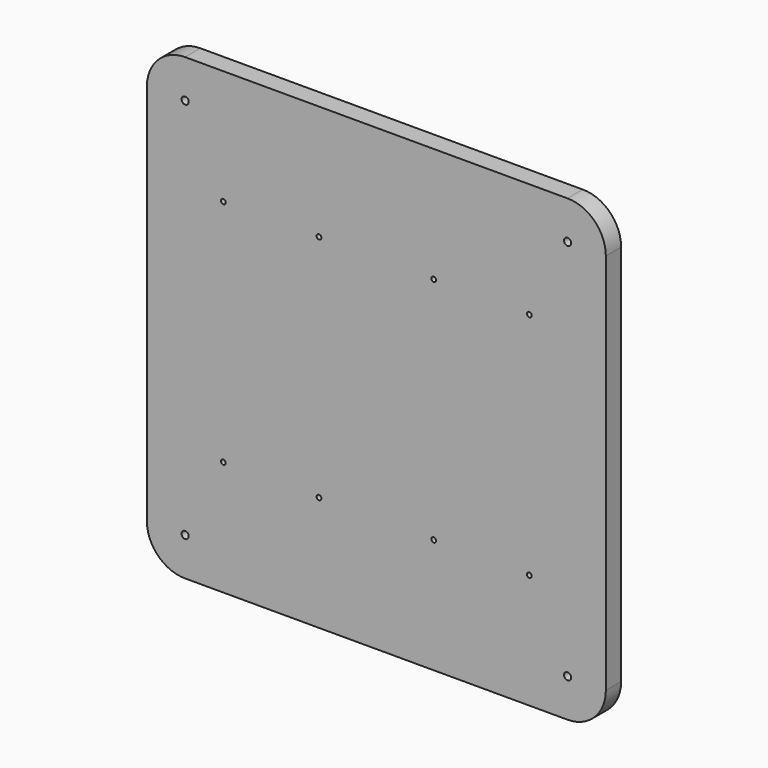
from build123d import *

# Parameters (mm, degrees)
F0_W     = 304.8
F0_H     = 304.8
F1_DEPTH = 12.7
F2_R     = 25.4
F4_D     = 3.175
F6_D     = 4.7752


with BuildPart() as f1:
    # F0 (on Front) → F1 (new body)
    with BuildSketch(Plane.XZ):
        with Locations((0.942873, 31.408716)):
            Rectangle(F0_W, F0_H)
    extrude(amount=F1_DEPTH)

    # F2
    f2_edges = [f1.edges().sort_by_distance(p)[0] for p in [
        (-151.457127, -6.35, 183.808716),
        (-151.457127, -6.35, -120.991284),
        (153.342873, -6.35, -120.991284),
        (153.342873, -6.35, 183.808716),
    ]]
    fillet(f2_edges, radius=F2_R)

    # F4 (through all)
    with Locations(Plane.XZ.offset(12.7)):
        with Locations((-100.657127, 107.608716), (-37.157127, 107.608716), (39.042873, 107.608716), (102.542873, 107.608716), (102.542873, -44.791284), (39.042873, -44.791284), (-37.157127, -44.791284), (-100.657127, -44.791284)):
            Hole(F4_D / 2)

    # F6 (through all)
    with Locations(Plane.XZ.offset(12.7)):
        with Locations((-126.057127, 158.408716), (127.942873, 158.408716), (127.942873, -95.591284), (-126.057127, -95.591284)):
            Hole(F6_D / 2)


solid = f1.part
